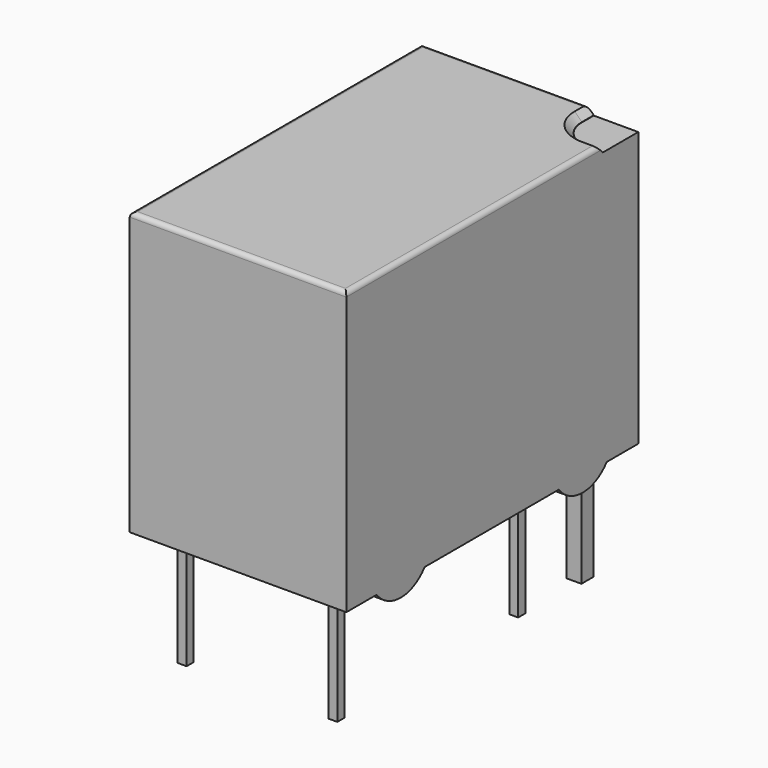
from build123d import *

# Parameters (mm, degrees)
PAD002_DEPTH  = 0.3
SKETCH_W      = 12.3
SKETCH_H      = 7.3
PAD_DEPTH     = 9.5
POCKET_DEPTH  = 0.25
CHAMFER_SIZE  = 0.24
FILLET_R      = 0.15
SKETCH001_W   = 0.5
SKETCH001_H   = 0.5
SKETCH001_W_2 = 0.3
SKETCH001_H_2 = 0.3
PAD001_DEPTH  = 4
PAD003_DEPTH  = 0.3


with BuildPart() as pad002:
    # Sketch003 → Pad002 (new body)
    with BuildSketch(Plane.YZ.offset(6.19)):
        with BuildLine():
            ThreePointArc((-10.21, 1.27), (-8.94, 0), (-7.67, 1.27))
            Line((-10.21, 1.27), (-7.67, 1.27))
        make_face()
        with BuildLine():
            ThreePointArc((-2.54, 1.27), (-1.27, 0), (0, 1.27))
            Line((-2.54, 1.27), (0, 1.27))
        make_face()
    extrude(amount=-PAD002_DEPTH)


with BuildPart() as fillet_body:
    # Sketch → Pad (new body)
    with BuildSketch(Plane(origin=(0, 0, 0.5), x_dir=(0, -1, 0), z_dir=(0, 0, 1))):
        with Locations((5.08, 2.54)):
            Rectangle(SKETCH_W, SKETCH_H)
    extrude(amount=PAD_DEPTH)

    # Sketch002 → Pocket (cut)
    with BuildSketch(Plane(origin=(0, 0, 10), x_dir=(0, -1, 0), z_dir=(0, 0, 1))):
        with BuildLine():
            ThreePointArc((-0.57, 4.69), (0.137107, 4.982894), (0.43, 5.690001))
            Line((0.43, 6.19), (0.43, 5.690001))
            Line((-1.07, 6.19), (0.43, 6.19))
            Line((-1.07, 4.69), (-1.07, 6.19))
            Line((-0.57, 4.69), (-1.07, 4.69))
        make_face()
    extrude(amount=-POCKET_DEPTH, mode=Mode.SUBTRACT)

    # Chamfer
    chamfer_edges = [fillet_body.edges().sort_by_distance(p)[0] for p in [
        (4.982894, -0.137107, 10),
        (5.940001, -0.43, 10),
        (4.69, 0.82, 10),
    ]]
    chamfer(chamfer_edges, length=CHAMFER_SIZE)

    # Fillet
    fillet_edges = [fillet_body.edges().sort_by_distance(p)[0] for p in [
        (6.19, -5.95, 10),
        (1.67, 1.07, 10),
        (-1.11, -5.08, 10),
        (2.54, -11.23, 10),
    ]]
    fillet(fillet_edges, radius=FILLET_R)


with BuildPart() as pad001:
    # Sketch001 → Pad001 (new body)
    with BuildSketch(Plane(origin=(0, 0, 0.6), x_dir=(0, -1, 0), z_dir=(0, 0, 1))):
        Rectangle(SKETCH001_W, SKETCH001_H)
        with Locations((2.64, 0)):
            Rectangle(SKETCH001_W_2, SKETCH001_H_2)
        with Locations((0, 5.08)):
            Rectangle(SKETCH001_W, SKETCH001_H)
        with Locations((2.64, 5.08)):
            Rectangle(SKETCH001_W_2, SKETCH001_H_2)
        with Locations((10.26, 0)):
            Rectangle(SKETCH001_W_2, SKETCH001_H_2)
        with Locations((10.26, 5.08)):
            Rectangle(SKETCH001_W_2, SKETCH001_H_2)
    extrude(amount=-PAD001_DEPTH)


with BuildPart() as obj1:
    # Sketch004 → Pad003 (new body)
    with BuildSketch(Plane.YZ.offset(-1.11)):
        with BuildLine():
            ThreePointArc((-10.21, 1.27), (-8.94, 0), (-7.67, 1.27))
            Line((-10.21, 1.27), (-7.67, 1.27))
        make_face()
        with BuildLine():
            ThreePointArc((-2.54, 1.27), (-1.27, 0), (0, 1.27))
            Line((-2.54, 1.27), (0, 1.27))
        make_face()
    extrude(amount=PAD003_DEPTH)

    # obj1: union Pad002, Fillet body, Pad001
    add(pad002.part)
    add(fillet_body.part)
    add(pad001.part)


solid = obj1.part
